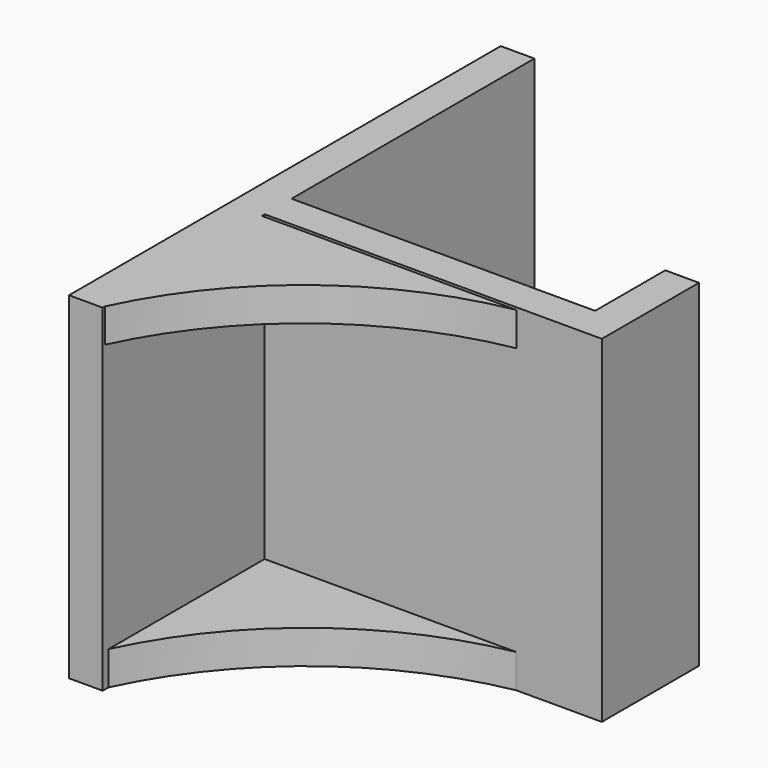
from build123d import *

# Parameters (mm, degrees)
F1_DEPTH = 31.75
F3_DEPTH = 3.175
F5_DEPTH = 3.175
F7_D     = 5.5
F7_DEPTH = 3.0323066673


with BuildPart() as f1:
    # F0 (on Top) → F1 (new body)
    with BuildSketch(Plane.XY):
        Polygon((0.1436933327, 44.4485164799), (-3.0313066673, 44.4485164799), (-3.0313066673, -6.3514835201), (0.1436933327, -6.3514835201), (0.1436933327, 12.6985164799), (31.8936933327, 12.6985164799), (31.8936933327, 24.1285164799), (28.7186933327, 24.1285164799), (28.7186933327, 15.8735164799), (0.1436933327, 15.8735164799), align=None)
    extrude(amount=F1_DEPTH)

    # F2 (on Top) → F3 (join)
    with BuildSketch(Plane.XY):
        with BuildLine():
            ThreePointArc((0, -5.9709572233), (9.7535685251, 6.3565785033), (24.1138786077, 12.7504607663))
            Line((24.1138786077, 12.7504607663), (0, 12.7504607663))
            Line((0, 12.7504607663), (0, -5.9709572233))
        make_face()
    extrude(amount=F3_DEPTH)

    # F4 (on face) → F5 (join)
    with BuildSketch(Plane.XY.offset(31.75)):
        with BuildLine():
            ThreePointArc((0.1436933327, -6.0840700046), (9.8903219557, 6.066105621), (24.1341023211, 12.3699344695))
            Line((24.1341023211, 12.3699344695), (0.1436933327, 12.3699344695))
            Line((0.1436933327, 12.3699344695), (0.1436933327, -6.0840700046))
        make_face()
    extrude(amount=-F5_DEPTH)

    # F7 (through all, one way)
    with BuildSketch(Plane.YZ):
        with Locations((3.1735164799, 15.875), (34.9235164799, 15.875)):
            Circle(F7_D / 2)
    extrude(amount=-F7_DEPTH, mode=Mode.SUBTRACT)


solid = f1.part
